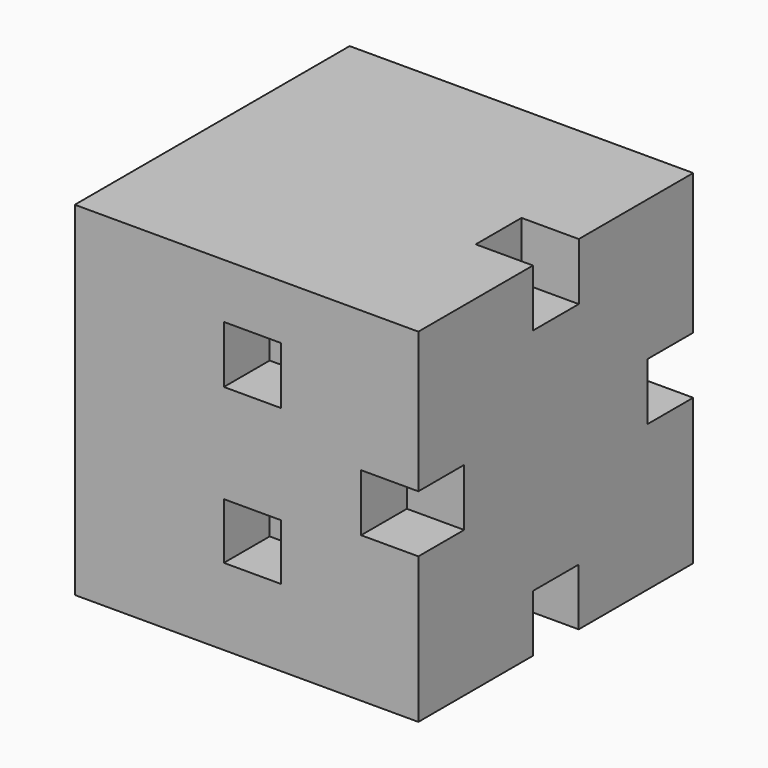
from build123d import *

# Parameters (mm, degrees)
F0_W     = 76.2
F0_H     = 76.2
F1_DEPTH = 76.2
F2_W     = 12.7
F2_H     = 12.7
F3_DEPTH = 12.7
F5_DEPTH = 12.7
F7_W     = 12.7
F7_H     = 12.7
F7_W_2   = 12.64588
F8_DEPTH = 12.7


with BuildPart() as f1:
    # F0 (on Front) → F1 (new body)
    with BuildSketch(Plane.XZ):
        with Locations((-1.315733, -0.572864)):
            Rectangle(F0_W, F0_H)
    extrude(amount=F1_DEPTH)

    # F2 (on face) → F3 (cut)
    with BuildSketch(Plane.XZ.offset(76.2)):
        with Locations((30.434267, 0)):
            Rectangle(F2_W, F2_H)
    extrude(amount=-F3_DEPTH, mode=Mode.SUBTRACT)

    # F4 (on face) → F5 (cut)
    with BuildSketch(Plane.XZ.offset(76.2)):
        Polygon((6.35, -9.196139), (0, -9.196139), (-6.35, -9.196139), (-6.35, -21.642357), (6.35, -21.642357), align=None)
        Polygon((-6.35, 12.7), (0, 12.7), (6.35, 12.7), (6.35, 25.4), (-6.35, 25.4), align=None)
    extrude(amount=-F5_DEPTH, mode=Mode.SUBTRACT)

    # F7 (on face) → F8 (cut)
    with BuildSketch(Plane.YZ.offset(36.784267)):
        with Locations((-6.35, 0)):
            Rectangle(F7_W, F7_H)
        with Locations((-38.07294, -32.363346)):
            Rectangle(F7_W_2, F7_H)
        with Locations((-38.07294, 31.177136)):
            Rectangle(F7_W, F7_H)
    extrude(amount=-F8_DEPTH, mode=Mode.SUBTRACT)


solid = f1.part
